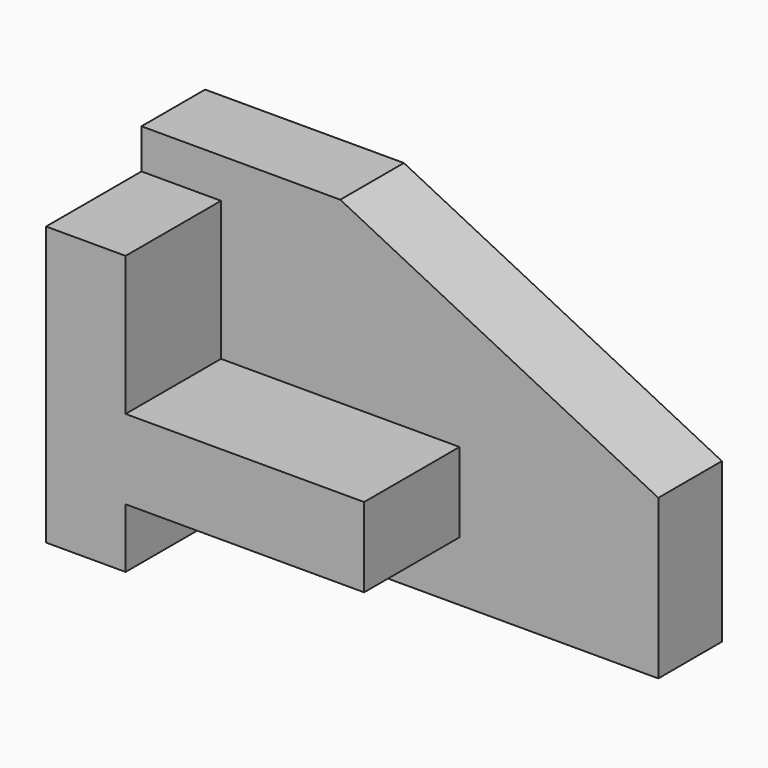
from build123d import *

# Parameters (mm, degrees)
F1_DEPTH = 25
F2_DEPTH = 10
F0_W     = 30
F0_H     = 10
F3_DEPTH = 25


with BuildPart() as f1:
    # F0 (on Front) → F1 (new body)
    with BuildSketch(Plane.XZ):
        Polygon((-64.929679, 35.287431), (-74.929679, 35.287431), (-74.929679, 0.287431), (-64.929679, 0.287431), (-64.929679, 7.787431), (-64.929679, 17.787431), align=None)
    extrude(amount=F1_DEPTH)

    # F0 (on Front) → F2 (join)
    with BuildSketch(Plane.XZ):
        Polygon((-74.929679, 40.287431), (-74.929679, 35.287431), (-64.929679, 35.287431), (-64.929679, 17.787431), (-34.929679, 17.787431), (-34.929679, 7.787431), (-64.929679, 7.787431), (-64.929679, 0.287431), (-9.929679, 0.287431), (-9.929679, 20.287431), (-49.929679, 40.287431), align=None)
    extrude(amount=F2_DEPTH)

    # F0 (on Front) → F3 (join)
    with BuildSketch(Plane.XZ):
        with Locations((-49.929679, 12.787431)):
            Rectangle(F0_W, F0_H)
    extrude(amount=F3_DEPTH)


solid = f1.part
